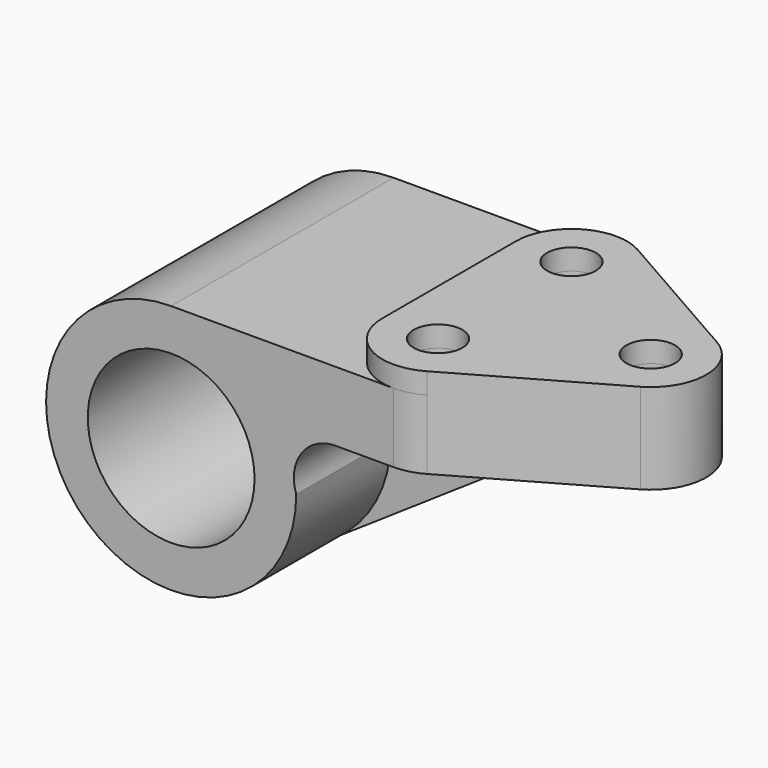
from build123d import *

# Parameters (mm, degrees)
F0_R     = 19.05
F1_DEPTH = 31.75
F2_DEPTH = 4.7625
F4_DEPTH = 25.4
F3_R     = 5.5626
F5_DEPTH = 4.7752
F6_DEPTH = 57.151


with BuildPart() as f1:
    # F0 (on Front) → F1 (new body, symmetric)
    with BuildSketch(Plane.XZ):
        with BuildLine():
            Line((102.144744, 28.575), (0, 28.575))
            ThreePointArc((0, 28.575), (-27.323569, -8.363802), (15.995025, -23.678889))
            ThreePointArc((15.995025, -23.678889), (25.234782, -13.40658), (28.575, 0))
            ThreePointArc((28.575, 0), (29.778126, 8.674261), (37.555256, 12.7))
            Line((37.555256, 12.7), (69.85, 12.7))
            Line((69.85, 12.7), (102.144744, 12.7))
            Line((102.144744, 12.7), (102.144744, 28.575))
        make_face()
        Circle(F0_R, mode=Mode.SUBTRACT)
    extrude(amount=F1_DEPTH, both=True)

    # F0 (on Front) → F2 (join, symmetric)
    with BuildSketch(Plane.XZ):
        with BuildLine():
            ThreePointArc((28.575, 0), (25.234782, -13.40658), (15.995025, -23.678889))
            Line((15.995025, -23.678889), (69.85, 12.7))
            Line((69.85, 12.7), (37.555256, 12.7))
            ThreePointArc((37.555256, 12.7), (29.778126, 8.674261), (28.575, 0))
        make_face()
    extrude(amount=F2_DEPTH, both=True)

    # F3 (on face) → F4 (cut)
    with BuildSketch(Plane.XY.offset(28.575)):
        with BuildLine():
            ThreePointArc((50.8, 31.75), (53.993405, 31.341955), (56.981604, 30.144042))
            Line((56.981604, 30.144042), (90.44915, 11.027839))
            ThreePointArc((90.44915, 11.027839), (96.85002, 0.067603), (90.566195, -10.960155))
            Line((90.566195, -10.960155), (57.099361, -30.077604))
            ThreePointArc((57.099361, -30.077604), (54.05879, -31.324783), (50.8, -31.75))
            Line((50.8, -31.75), (102.144744, -31.75))
            Line((102.144744, -31.75), (102.144744, 31.75))
            Line((102.144744, 31.75), (50.8, 31.75))
        make_face()
    extrude(amount=-F4_DEPTH, mode=Mode.SUBTRACT)

    # F3 (on face) → F5 (join)
    with BuildSketch(Plane.XY.offset(28.575)):
        with BuildLine():
            Line((90.44915, 11.027839), (56.981604, 30.144042))
            ThreePointArc((56.981604, 30.144042), (44.365246, 29.999153), (38.1, 19.047432))
            Line((38.1, 19.047432), (38.107793, -19.494827))
            ThreePointArc((38.107793, -19.494827), (44.618098, -30.143876), (57.099361, -30.077604))
            Line((57.099361, -30.077604), (90.566195, -10.960155))
            ThreePointArc((90.566195, -10.960155), (96.85002, 0.067603), (90.44915, 11.027839))
        make_face()
        with Locations((50.8, -19.05)):
            Circle(F3_R, mode=Mode.SUBTRACT)
        with Locations((50.8, 19.05)):
            Circle(F3_R, mode=Mode.SUBTRACT)
        with Locations((84.1502, 0)):
            Circle(F3_R, mode=Mode.SUBTRACT)
    extrude(amount=F5_DEPTH)

    # F3 (on face) → F6 (cut, through all)
    with BuildSketch(Plane.XY.offset(28.575)):
        with Locations((50.8, 19.05)):
            Circle(F3_R)
        with Locations((84.1502, 0)):
            Circle(F3_R)
        with Locations((50.8, -19.05)):
            Circle(F3_R)
    extrude(amount=-F6_DEPTH, mode=Mode.SUBTRACT)


solid = f1.part
